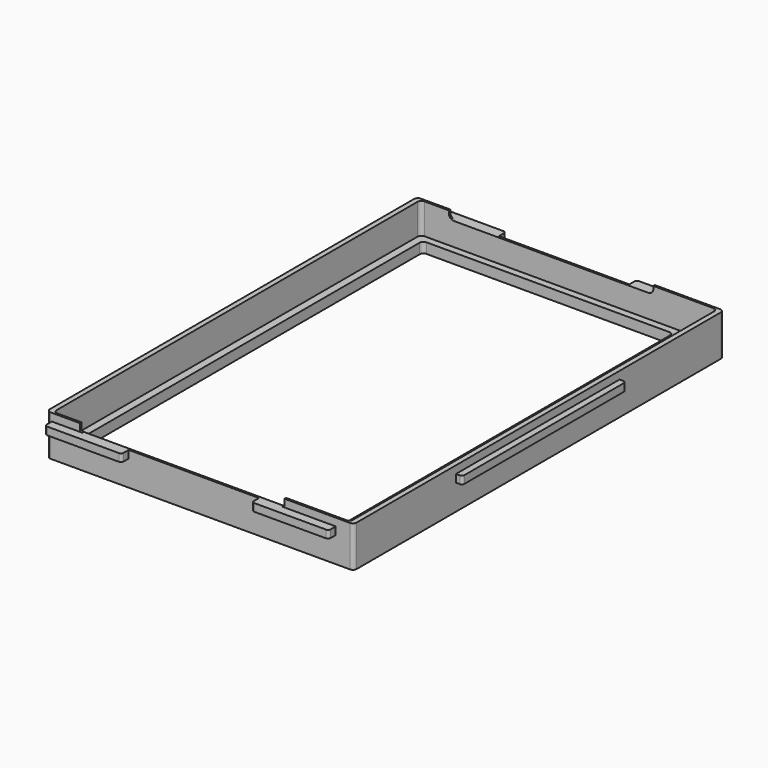
from build123d import *

# Parameters (mm, degrees)
BOX011_W      = 4
BOX011_H      = 80
BOX011_DEPTH  = 3
FILLET006_R   = 1
BOX010_W      = 30
BOX010_H      = 4
BOX010_DEPTH  = 3
FILLET007_R   = 1
BOX009_W      = 30
BOX009_H      = 4
BOX009_DEPTH  = 3
FILLET008_R   = 1
BOX008_W      = 30
BOX008_H      = 4
BOX008_DEPTH  = 3
FILLET009_R   = 1
BOX013_W      = 4
BOX013_H      = 80
BOX013_DEPTH  = 3
FILLET010_R   = 1
BOX012_W      = 30
BOX012_H      = 4
BOX012_DEPTH  = 3
FILLET005_R   = 1
BOX006_W      = 80
BOX006_H      = 10
BOX006_DEPTH  = 10
BOX007_W      = 80
BOX007_H      = 10
BOX007_DEPTH  = 10
FILLET004_1_R = 2
FILLET004_2_R = 1
BOX003_W      = 116
BOX003_H      = 179.5
BOX003_DEPTH  = 20
FILLET002_R   = 1.5
BOX002_W      = 120
BOX002_H      = 181
BOX002_DEPTH  = 12
FILLET003_R   = 1.5
BOX001_W      = 98
BOX001_H      = 173.5
BOX001_DEPTH  = 4
FILLET_R      = 1.5
BOX_W         = 120
BOX_H         = 181
BOX_DEPTH     = 4
FILLET001_R   = 1.5


with BuildPart() as fillet006:
    # Box011 → Box011 (new body)
    with BuildSketch(Plane(origin=(0, 50, 5), x_dir=(1, 0, 0), z_dir=(0, 0, 1))):
        with Locations((2, 40)):
            Rectangle(BOX011_W, BOX011_H)
    extrude(amount=BOX011_DEPTH)

    # Fillet006
    fillet006_edges = [fillet006.edges().sort_by_distance(p)[0] for p in [
        (0, 50, 6.5),
        (0, 130, 6.5),
    ]]
    fillet(fillet006_edges, radius=FILLET006_R)


with BuildPart() as fillet007:
    # Box010 → Box010 (new body)
    with BuildSketch(Plane(origin=(85, -3.5, 5), x_dir=(1, 0, 0), z_dir=(0, 0, 1))):
        with Locations((15, 2)):
            Rectangle(BOX010_W, BOX010_H)
    extrude(amount=BOX010_DEPTH)

    # Fillet007
    fillet007_edges = [fillet007.edges().sort_by_distance(p)[0] for p in [
        (85, -3.5, 6.5),
        (115, -3.5, 6.5),
    ]]
    fillet(fillet007_edges, radius=FILLET007_R)


with BuildPart() as fillet008:
    # Box009 → Box009 (new body)
    with BuildSketch(Plane(origin=(4, 180.5, 5), x_dir=(1, 0, 0), z_dir=(0, 0, 1))):
        with Locations((15, 2)):
            Rectangle(BOX009_W, BOX009_H)
    extrude(amount=BOX009_DEPTH)

    # Fillet008
    fillet008_edges = [fillet008.edges().sort_by_distance(p)[0] for p in [
        (4, 184.5, 6.5),
        (34, 184.5, 6.5),
    ]]
    fillet(fillet008_edges, radius=FILLET008_R)


with BuildPart() as fillet009:
    # Box008 → Box008 (new body)
    with BuildSketch(Plane(origin=(85, 180.5, 5), x_dir=(1, 0, 0), z_dir=(0, 0, 1))):
        with Locations((15, 2)):
            Rectangle(BOX008_W, BOX008_H)
    extrude(amount=BOX008_DEPTH)

    # Fillet009
    fillet009_edges = [fillet009.edges().sort_by_distance(p)[0] for p in [
        (85, 184.5, 6.5),
        (115, 184.5, 6.5),
    ]]
    fillet(fillet009_edges, radius=FILLET009_R)


with BuildPart() as fillet010:
    # Box013 → Box013 (new body)
    with BuildSketch(Plane(origin=(120.5, 50, 5), x_dir=(1, 0, 0), z_dir=(0, 0, 1))):
        with Locations((2, 40)):
            Rectangle(BOX013_W, BOX013_H)
    extrude(amount=BOX013_DEPTH)

    # Fillet010
    fillet010_edges = [fillet010.edges().sort_by_distance(p)[0] for p in [
        (124.5, 50, 6.5),
        (124.5, 130, 6.5),
    ]]
    fillet(fillet010_edges, radius=FILLET010_R)


with BuildPart() as fusion002:
    # Box012 → Box012 (new body)
    with BuildSketch(Plane(origin=(4, -3.5, 5), x_dir=(1, 0, 0), z_dir=(0, 0, 1))):
        with Locations((15, 2)):
            Rectangle(BOX012_W, BOX012_H)
    extrude(amount=BOX012_DEPTH)

    # Fillet005
    fillet005_edges = [fusion002.edges().sort_by_distance(p)[0] for p in [
        (4, -3.5, 6.5),
        (34, -3.5, 6.5),
    ]]
    fillet(fillet005_edges, radius=FILLET005_R)

    # Fusion002: union Fillet006, Fillet007, Fillet008, Fillet009, Fillet010
    add(fillet006.part)
    add(fillet007.part)
    add(fillet008.part)
    add(fillet009.part)
    add(fillet010.part)


with BuildPart() as fusion002_1:
    # Fusion002 placement: moved
    add(fusion002.part.moved(Location((0, 0, 5))))


with BuildPart() as cube006:
    # Box006 → Box006 (new body)
    with BuildSketch(Plane(origin=(15, -5, 0), x_dir=(1, 0, 0), z_dir=(0, 0, 1))):
        with Locations((40, 5)):
            Rectangle(BOX006_W, BOX006_H)
    extrude(amount=BOX006_DEPTH)


with BuildPart() as fillet004:
    # Box007 → Box007 (new body)
    with BuildSketch(Plane(origin=(15, 175, 0), x_dir=(1, 0, 0), z_dir=(0, 0, 1))):
        with Locations((40, 5)):
            Rectangle(BOX007_W, BOX007_H)
    extrude(amount=BOX007_DEPTH)

    # Fusion: union Cube006
    add(cube006.part)


with BuildPart() as fillet004_1:
    # Fusion placement: moved
    add(fillet004.part.moved(Location((0, 0, 13))))

    # Fillet004 1
    fillet004_1_edges = [fillet004_1.edges().sort_by_distance(p)[0] for p in [
        (15, 180, 13),
        (95, 180, 13),
    ]]
    fillet(fillet004_1_edges, radius=FILLET004_1_R)

    # Fillet004 2
    fillet004_2_edges = [fillet004_1.edges().sort_by_distance(p)[0] for p in [
        (15, 0, 13),
        (95, 0, 13),
    ]]
    fillet(fillet004_2_edges, radius=FILLET004_2_R)


with BuildPart() as fillet002:
    # Box003 → Box003 (new body)
    with BuildSketch(Plane(origin=(4, 0.75, 4), x_dir=(1, 0, 0), z_dir=(0, 0, 1))):
        with Locations((58, 89.75)):
            Rectangle(BOX003_W, BOX003_H)
    extrude(amount=BOX003_DEPTH)

    # Fillet002
    fillet002_edges = [fillet002.edges().sort_by_distance(p)[0] for p in [
        (4, 0.75, 14),
        (4, 180.25, 14),
        (120, 0.75, 14),
        (120, 180.25, 14),
    ]]
    fillet(fillet002_edges, radius=FILLET002_R)


with BuildPart() as cut002:
    # Box002 → Box002 (new body)
    with BuildSketch(Plane(origin=(2, 0, 4), x_dir=(1, 0, 0), z_dir=(0, 0, 1))):
        with Locations((60, 90.5)):
            Rectangle(BOX002_W, BOX002_H)
    extrude(amount=BOX002_DEPTH)

    # Fillet003
    fillet003_edges = [cut002.edges().sort_by_distance(p)[0] for p in [
        (2, 0, 10),
        (2, 181, 10),
        (122, 0, 10),
        (122, 181, 10),
    ]]
    fillet(fillet003_edges, radius=FILLET003_R)

    # Cut001: cut Fillet002
    add(fillet002.part, mode=Mode.SUBTRACT)

    # Cut002: cut Fillet004
    add(fillet004_1.part, mode=Mode.SUBTRACT)


with BuildPart() as fillet_body:
    # Box001 → Box001 (new body)
    with BuildSketch(Plane(origin=(7, 4, 0), x_dir=(1, 0, 0), z_dir=(0, 0, 1))):
        with Locations((49, 86.75)):
            Rectangle(BOX001_W, BOX001_H)
    extrude(amount=BOX001_DEPTH)

    # Fillet
    fillet_edges = [fillet_body.edges().sort_by_distance(p)[0] for p in [
        (7, 4, 2),
        (7, 177.5, 2),
        (105, 4, 2),
        (105, 177.5, 2),
    ]]
    fillet(fillet_edges, radius=FILLET_R)


with BuildPart() as fusion003:
    # Box → Box (new body)
    with BuildSketch(Plane(origin=(2, 0, 0), x_dir=(1, 0, 0), z_dir=(0, 0, 1))):
        with Locations((60, 90.5)):
            Rectangle(BOX_W, BOX_H)
    extrude(amount=BOX_DEPTH)

    # Fillet001
    fillet001_edges = [fusion003.edges().sort_by_distance(p)[0] for p in [
        (2, 0, 2),
        (2, 181, 2),
        (122, 0, 2),
        (122, 181, 2),
    ]]
    fillet(fillet001_edges, radius=FILLET001_R)

    # Cut: cut Fillet body
    add(fillet_body.part, mode=Mode.SUBTRACT)

    # Fusion001: union Cut002
    add(cut002.part)

    # Fusion003: union Fusion002
    add(fusion002_1.part)


solid = fusion003.part
